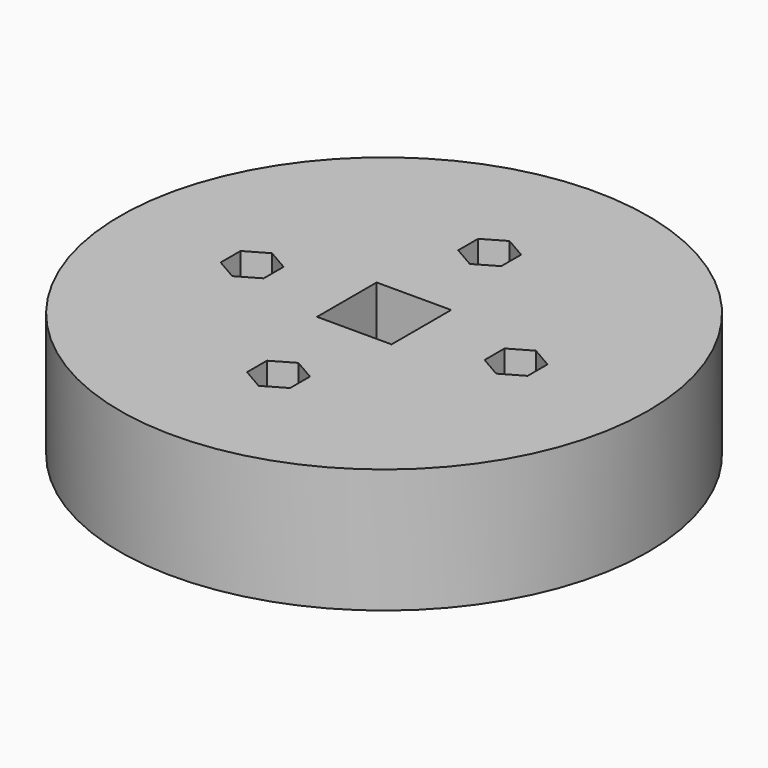
from build123d import *

# Parameters (mm, degrees)
F0_R     = 42.5
F0_W     = 12
F0_H     = 12
F1_DEPTH = 15
F2_R     = 42.5
F3_DEPTH = 5
F4_R     = 2.1
F5_DEPTH = 10
F7_DEPTH = 4


with BuildPart() as f1:
    # F0 (on Top) → F1 (new body)
    with BuildSketch(Plane.XY):
        Circle(F0_R)
        Rectangle(F0_W, F0_H, mode=Mode.SUBTRACT)
    extrude(amount=F1_DEPTH)

    # F2 (on face) → F3 (join)
    with BuildSketch(Plane(origin=(0, 0, 0), x_dir=(1, 0, 0), z_dir=(0, 0, -1))):
        Circle(F2_R)
    extrude(amount=F3_DEPTH)

    # F4 (on face) → F5 (cut)
    with BuildSketch(Plane.XY.offset(15)):
        with Locations((-21.25, 0)):
            Circle(F4_R)
        with Locations((0, 21.25)):
            Circle(F4_R)
        with Locations((21.25, 0)):
            Circle(F4_R)
        with Locations((0, -21.25)):
            Circle(F4_R)
    extrude(amount=-F5_DEPTH, mode=Mode.SUBTRACT)

    # F6 (on face) → F7 (cut)
    with BuildSketch(Plane.XY.offset(15)):
        Polygon((-24.714102, 2), (-24.714102, -2), (-21.25, -4), (-17.785898, -2), (-17.785898, 2), (-21.25, 4), align=None)
        Polygon((-3.464102, 23.25), (-3.464102, 19.25), (0, 17.25), (3.464102, 19.25), (3.464102, 23.25), (0, 25.25), align=None)
        Polygon((17.785898, 2), (17.785898, -2), (21.25, -4), (24.714102, -2), (24.714102, 2), (21.25, 4), align=None)
        Polygon((-3.464102, -19.25), (-3.464102, -23.25), (0, -25.25), (3.464102, -23.25), (3.464102, -19.25), (0, -17.25), align=None)
    extrude(amount=-F7_DEPTH, mode=Mode.SUBTRACT)


solid = f1.part
